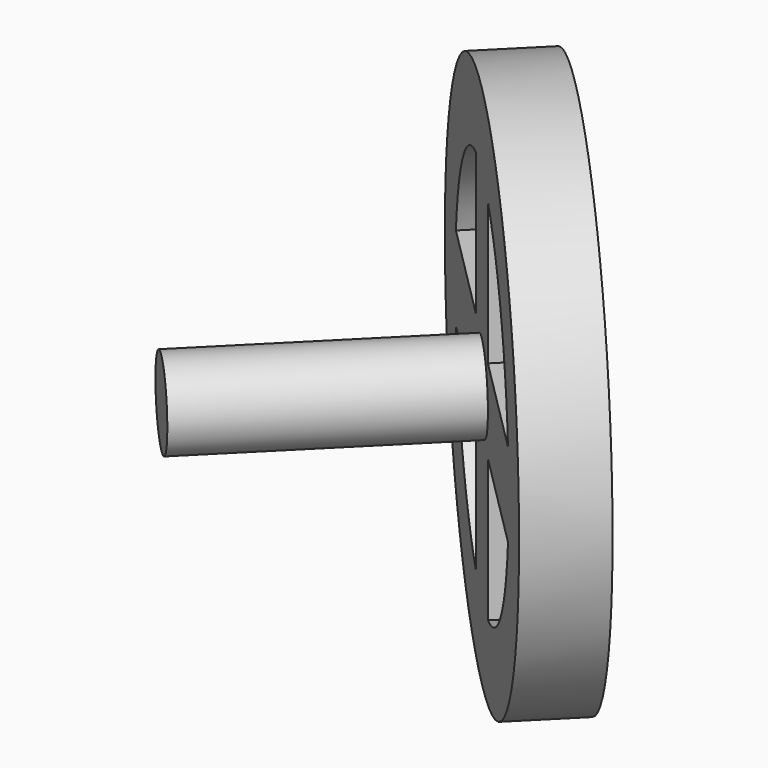
from build123d import *

# Parameters (mm, degrees)
SKETCH048_R             = 12.5
PAD029_DEPTH            = 2
POCKET016_DEPTH         = 2.001
SKETCH049_R             = 12.5
PAD030_DEPTH            = 1.5
POCKET017_DEPTH         = 3.501
SKETCH051_R             = 2
PAD031_DEPTH            = 12
BODY019_ROLL_ANGLE      = -90
BODY019_PLACEMENT_ANGLE = 135


with BuildPart() as part:
    # Sketch048 → Pad029 (new body)
    with BuildSketch(Plane.XY):
        Circle(SKETCH048_R)
    extrude(amount=PAD029_DEPTH)

    # InvoluteGear004 → Pocket016 (cut, through all)
    with BuildSketch(Plane.XY):
        with BuildLine():
            Line((9.429779, -0.670682), (9.462464, -0.672485))
            add(Edge.make_bspline(
                [(9.462464, -0.672485), (9.526401, -0.672813), (9.782228, -0.665747), (10.228882, -0.559536), (10.796766, -0.262578)],
                knots=[0, 0, 0, 0, 0, 1, 1, 1, 1, 1], degree=4))
            ThreePointArc((10.796766, -0.262578), (10.799979, 0.000282), (10.796794, 0.263143))
            add(Edge.make_bspline(
                [(10.796794, 0.263143), (10.228882, 0.559536), (9.782228, 0.665747), (9.526401, 0.672813), (9.462464, 0.672485)],
                knots=[0, 0, 0, 0, 0, 1, 1, 1, 1, 1], degree=4))
            Line((9.462464, 0.672485), (9.429779, 0.670682))
            ThreePointArc((9.429779, 0.670682), (9.231731, 0.732712), (9.134195, 0.9159))
            ThreePointArc((9.134195, 0.9159), (9.122278, 1.027834), (9.108989, 1.139613))
            ThreePointArc((9.108989, 1.139613), (9.163316, 1.339912), (9.342596, 1.444457))
            Line((9.342596, 1.444457), (9.374862, 1.449972))
            add(Edge.make_bspline(
                [(9.374862, 1.449972), (9.437269, 1.46388), (9.68511, 1.527695), (10.096931, 1.730633), (10.584498, 2.146512)],
                knots=[0, 0, 0, 0, 0, 1, 1, 1, 1, 1], degree=4))
            ThreePointArc((10.584498, 2.146512), (10.529138, 2.403497), (10.467541, 2.659058))
            add(Edge.make_bspline(
                [(10.467541, 2.659058), (9.847914, 2.821648), (9.388824, 2.825806), (9.137839, 2.775768), (9.075578, 2.76122)],
                knots=[0, 0, 0, 0, 0, 1, 1, 1, 1, 1], degree=4))
            Line((9.075578, 2.76122), (9.044114, 2.75219))
            ThreePointArc((9.044114, 2.75219), (8.837228, 2.768595), (8.701375, 2.925486))
            ThreePointArc((8.701375, 2.925486), (8.664849, 3.031962), (8.62702, 3.137981))
            ThreePointArc((8.62702, 3.137981), (8.635414, 3.345347), (8.786936, 3.487164))
            Line((8.786936, 3.487164), (8.817165, 3.499721))
            add(Edge.make_bspline(
                [(8.817165, 3.499721), (8.874913, 3.527167), (9.10234, 3.644532), (9.458678, 3.934021), (9.841478, 4.447967)],
                knots=[0, 0, 0, 0, 0, 1, 1, 1, 1, 1], degree=4))
            ThreePointArc((9.841478, 4.447967), (9.730323, 4.68619), (9.613402, 4.921637))
            add(Edge.make_bspline(
                [(9.613402, 4.921637), (8.973131, 4.94227), (8.524626, 4.844167), (8.291068, 4.739534), (8.233605, 4.711497)],
                knots=[0, 0, 0, 0, 0, 1, 1, 1, 1, 1], degree=4))
            Line((8.233605, 4.711497), (8.20494, 4.695691))
            ThreePointArc((8.20494, 4.695691), (7.99959, 4.665649), (7.832232, 4.788376))
            ThreePointArc((7.832232, 4.788376), (7.772928, 4.884054), (7.712456, 4.978998))
            ThreePointArc((7.712456, 4.978998), (7.674496, 5.183033), (7.790662, 5.355011))
            Line((7.790662, 5.355011), (7.817339, 5.37398))
            add(Edge.make_bspline(
                [(7.817339, 5.37398), (7.867532, 5.413588), (8.06314, 5.578617), (8.346127, 5.940141), (8.604966, 6.526382)],
                knots=[0, 0, 0, 0, 0, 1, 1, 1, 1, 1], degree=4))
            ThreePointArc((8.604966, 6.526382), (8.443588, 6.733898), (8.277206, 6.937424))
            add(Edge.make_bspline(
                [(8.277206, 6.937424), (7.648397, 6.815067), (7.232967, 6.619621), (7.028548, 6.46564), (6.978765, 6.425519)],
                knots=[0, 0, 0, 0, 0, 1, 1, 1, 1, 1], degree=4))
            Line((6.978765, 6.425519), (6.954335, 6.403732))
            ThreePointArc((6.954335, 6.403732), (6.760819, 6.328748), (6.570347, 6.411157))
            ThreePointArc((6.570347, 6.411157), (6.49124, 6.49124), (6.411157, 6.570347))
            ThreePointArc((6.411157, 6.570347), (6.328748, 6.760819), (6.403732, 6.954335))
            Line((6.403732, 6.954335), (6.425519, 6.978765))
            add(Edge.make_bspline(
                [(6.425519, 6.978765), (6.46564, 7.028548), (6.619621, 7.232967), (6.815067, 7.648397), (6.936965, 8.277537)],
                knots=[0, 0, 0, 0, 0, 1, 1, 1, 1, 1], degree=4))
            ThreePointArc((6.936965, 8.277537), (6.733456, 8.44394), (6.525958, 8.60534))
            add(Edge.make_bspline(
                [(6.525958, 8.60534), (5.940141, 8.346127), (5.578617, 8.06314), (5.413588, 7.867532), (5.37398, 7.817339)],
                knots=[0, 0, 0, 0, 0, 1, 1, 1, 1, 1], degree=4))
            Line((5.37398, 7.817339), (5.355011, 7.790662))
            ThreePointArc((5.355011, 7.790662), (5.183033, 7.674496), (4.978998, 7.712456))
            ThreePointArc((4.978998, 7.712456), (4.884054, 7.772928), (4.788376, 7.832232))
            ThreePointArc((4.788376, 7.832232), (4.665649, 7.99959), (4.695691, 8.20494))
            Line((4.695691, 8.20494), (4.711497, 8.233605))
            add(Edge.make_bspline(
                [(4.711497, 8.233605), (4.739534, 8.291068), (4.844167, 8.524626), (4.94227, 8.973131), (4.921116, 9.613622)],
                knots=[0, 0, 0, 0, 0, 1, 1, 1, 1, 1], degree=4))
            ThreePointArc((4.921116, 9.613622), (4.685681, 9.730568), (4.44747, 9.841748))
            add(Edge.make_bspline(
                [(4.44747, 9.841748), (3.934021, 9.458678), (3.644532, 9.10234), (3.527167, 8.874913), (3.499721, 8.817165)],
                knots=[0, 0, 0, 0, 0, 1, 1, 1, 1, 1], degree=4))
            Line((3.499721, 8.817165), (3.487164, 8.786936))
            ThreePointArc((3.487164, 8.786936), (3.345347, 8.635414), (3.137981, 8.62702))
            ThreePointArc((3.137981, 8.62702), (3.031962, 8.664849), (2.925486, 8.701375))
            ThreePointArc((2.925486, 8.701375), (2.768595, 8.837228), (2.75219, 9.044114))
            Line((2.75219, 9.044114), (2.76122, 9.075578))
            add(Edge.make_bspline(
                [(2.76122, 9.075578), (2.775768, 9.137839), (2.825806, 9.388824), (2.821648, 9.847914), (2.658501, 10.46764)],
                knots=[0, 0, 0, 0, 0, 1, 1, 1, 1, 1], degree=4))
            ThreePointArc((2.658501, 10.46764), (2.402946, 10.529264), (2.145967, 10.58465))
            add(Edge.make_bspline(
                [(2.145967, 10.58465), (1.730633, 10.096931), (1.527695, 9.68511), (1.46388, 9.437269), (1.449972, 9.374862)],
                knots=[0, 0, 0, 0, 0, 1, 1, 1, 1, 1], degree=4))
            Line((1.449972, 9.374862), (1.444457, 9.342596))
            ThreePointArc((1.444457, 9.342596), (1.339912, 9.163316), (1.139613, 9.108989))
            ThreePointArc((1.139613, 9.108989), (1.027834, 9.122278), (0.9159, 9.134195))
            ThreePointArc((0.9159, 9.134195), (0.732712, 9.231731), (0.670682, 9.429779))
            Line((0.670682, 9.429779), (0.672485, 9.462464))
            add(Edge.make_bspline(
                [(0.672485, 9.462464), (0.672813, 9.526401), (0.665747, 9.782228), (0.559536, 10.228882), (0.262578, 10.796766)],
                knots=[0, 0, 0, 0, 0, 1, 1, 1, 1, 1], degree=4))
            ThreePointArc((0.262578, 10.796766), (-0.000282, 10.799979), (-0.263143, 10.796794))
            add(Edge.make_bspline(
                [(-0.263143, 10.796794), (-0.559536, 10.228882), (-0.665747, 9.782228), (-0.672813, 9.526401), (-0.672485, 9.462464)],
                knots=[0, 0, 0, 0, 0, 1, 1, 1, 1, 1], degree=4))
            Line((-0.672485, 9.462464), (-0.670682, 9.429779))
            ThreePointArc((-0.670682, 9.429779), (-0.732712, 9.231731), (-0.9159, 9.134195))
            ThreePointArc((-0.9159, 9.134195), (-1.027834, 9.122278), (-1.139613, 9.108989))
            ThreePointArc((-1.139613, 9.108989), (-1.339912, 9.163316), (-1.444457, 9.342596))
            Line((-1.444457, 9.342596), (-1.449972, 9.374862))
            add(Edge.make_bspline(
                [(-1.449972, 9.374862), (-1.46388, 9.437269), (-1.527695, 9.68511), (-1.730633, 10.096931), (-2.146512, 10.584498)],
                knots=[0, 0, 0, 0, 0, 1, 1, 1, 1, 1], degree=4))
            ThreePointArc((-2.146512, 10.584498), (-2.403497, 10.529138), (-2.659058, 10.467541))
            add(Edge.make_bspline(
                [(-2.659058, 10.467541), (-2.821648, 9.847914), (-2.825806, 9.388824), (-2.775768, 9.137839), (-2.76122, 9.075578)],
                knots=[0, 0, 0, 0, 0, 1, 1, 1, 1, 1], degree=4))
            Line((-2.76122, 9.075578), (-2.75219, 9.044114))
            ThreePointArc((-2.75219, 9.044114), (-2.768595, 8.837228), (-2.925486, 8.701375))
            ThreePointArc((-2.925486, 8.701375), (-3.031962, 8.664849), (-3.137981, 8.62702))
            ThreePointArc((-3.137981, 8.62702), (-3.345347, 8.635414), (-3.487164, 8.786936))
            Line((-3.487164, 8.786936), (-3.499721, 8.817165))
            add(Edge.make_bspline(
                [(-3.499721, 8.817165), (-3.527167, 8.874913), (-3.644532, 9.10234), (-3.934021, 9.458678), (-4.447967, 9.841478)],
                knots=[0, 0, 0, 0, 0, 1, 1, 1, 1, 1], degree=4))
            ThreePointArc((-4.447967, 9.841478), (-4.68619, 9.730323), (-4.921637, 9.613402))
            add(Edge.make_bspline(
                [(-4.921637, 9.613402), (-4.94227, 8.973131), (-4.844167, 8.524626), (-4.739534, 8.291068), (-4.711497, 8.233605)],
                knots=[0, 0, 0, 0, 0, 1, 1, 1, 1, 1], degree=4))
            Line((-4.711497, 8.233605), (-4.695691, 8.20494))
            ThreePointArc((-4.695691, 8.20494), (-4.665649, 7.99959), (-4.788376, 7.832232))
            ThreePointArc((-4.788376, 7.832232), (-4.884054, 7.772928), (-4.978998, 7.712456))
            ThreePointArc((-4.978998, 7.712456), (-5.183033, 7.674496), (-5.355011, 7.790662))
            Line((-5.355011, 7.790662), (-5.37398, 7.817339))
            add(Edge.make_bspline(
                [(-5.37398, 7.817339), (-5.413588, 7.867532), (-5.578617, 8.06314), (-5.940141, 8.346127), (-6.526382, 8.604966)],
                knots=[0, 0, 0, 0, 0, 1, 1, 1, 1, 1], degree=4))
            ThreePointArc((-6.526382, 8.604966), (-6.733898, 8.443588), (-6.937424, 8.277206))
            add(Edge.make_bspline(
                [(-6.937424, 8.277206), (-6.815067, 7.648397), (-6.619621, 7.232967), (-6.46564, 7.028548), (-6.425519, 6.978765)],
                knots=[0, 0, 0, 0, 0, 1, 1, 1, 1, 1], degree=4))
            Line((-6.425519, 6.978765), (-6.403732, 6.954335))
            ThreePointArc((-6.403732, 6.954335), (-6.328748, 6.760819), (-6.411157, 6.570347))
            ThreePointArc((-6.411157, 6.570347), (-6.49124, 6.49124), (-6.570347, 6.411157))
            ThreePointArc((-6.570347, 6.411157), (-6.760819, 6.328748), (-6.954335, 6.403732))
            Line((-6.954335, 6.403732), (-6.978765, 6.425519))
            add(Edge.make_bspline(
                [(-6.978765, 6.425519), (-7.028548, 6.46564), (-7.232967, 6.619621), (-7.648397, 6.815067), (-8.277537, 6.936965)],
                knots=[0, 0, 0, 0, 0, 1, 1, 1, 1, 1], degree=4))
            ThreePointArc((-8.277537, 6.936965), (-8.44394, 6.733456), (-8.60534, 6.525958))
            add(Edge.make_bspline(
                [(-8.60534, 6.525958), (-8.346127, 5.940141), (-8.06314, 5.578617), (-7.867532, 5.413588), (-7.817339, 5.37398)],
                knots=[0, 0, 0, 0, 0, 1, 1, 1, 1, 1], degree=4))
            Line((-7.817339, 5.37398), (-7.790662, 5.355011))
            ThreePointArc((-7.790662, 5.355011), (-7.674496, 5.183033), (-7.712456, 4.978998))
            ThreePointArc((-7.712456, 4.978998), (-7.772928, 4.884054), (-7.832232, 4.788376))
            ThreePointArc((-7.832232, 4.788376), (-7.99959, 4.665649), (-8.20494, 4.695691))
            Line((-8.20494, 4.695691), (-8.233605, 4.711497))
            add(Edge.make_bspline(
                [(-8.233605, 4.711497), (-8.291068, 4.739534), (-8.524626, 4.844167), (-8.973131, 4.94227), (-9.613622, 4.921116)],
                knots=[0, 0, 0, 0, 0, 1, 1, 1, 1, 1], degree=4))
            ThreePointArc((-9.613622, 4.921116), (-9.730568, 4.685681), (-9.841748, 4.44747))
            add(Edge.make_bspline(
                [(-9.841748, 4.44747), (-9.458678, 3.934021), (-9.10234, 3.644532), (-8.874913, 3.527167), (-8.817165, 3.499721)],
                knots=[0, 0, 0, 0, 0, 1, 1, 1, 1, 1], degree=4))
            Line((-8.817165, 3.499721), (-8.786936, 3.487164))
            ThreePointArc((-8.786936, 3.487164), (-8.635414, 3.345347), (-8.62702, 3.137981))
            ThreePointArc((-8.62702, 3.137981), (-8.664849, 3.031962), (-8.701375, 2.925486))
            ThreePointArc((-8.701375, 2.925486), (-8.837228, 2.768595), (-9.044114, 2.75219))
            Line((-9.044114, 2.75219), (-9.075578, 2.76122))
            add(Edge.make_bspline(
                [(-9.075578, 2.76122), (-9.137839, 2.775768), (-9.388824, 2.825806), (-9.847914, 2.821648), (-10.46764, 2.658501)],
                knots=[0, 0, 0, 0, 0, 1, 1, 1, 1, 1], degree=4))
            ThreePointArc((-10.46764, 2.658501), (-10.529264, 2.402946), (-10.58465, 2.145967))
            add(Edge.make_bspline(
                [(-10.58465, 2.145967), (-10.096931, 1.730633), (-9.68511, 1.527695), (-9.437269, 1.46388), (-9.374862, 1.449972)],
                knots=[0, 0, 0, 0, 0, 1, 1, 1, 1, 1], degree=4))
            Line((-9.374862, 1.449972), (-9.342596, 1.444457))
            ThreePointArc((-9.342596, 1.444457), (-9.163316, 1.339912), (-9.108989, 1.139613))
            ThreePointArc((-9.108989, 1.139613), (-9.122278, 1.027834), (-9.134195, 0.9159))
            ThreePointArc((-9.134195, 0.9159), (-9.231731, 0.732712), (-9.429779, 0.670682))
            Line((-9.429779, 0.670682), (-9.462464, 0.672485))
            add(Edge.make_bspline(
                [(-9.462464, 0.672485), (-9.526401, 0.672813), (-9.782228, 0.665747), (-10.228882, 0.559536), (-10.796766, 0.262578)],
                knots=[0, 0, 0, 0, 0, 1, 1, 1, 1, 1], degree=4))
            ThreePointArc((-10.796766, 0.262578), (-10.799979, -0.000282), (-10.796794, -0.263143))
            add(Edge.make_bspline(
                [(-10.796794, -0.263143), (-10.228882, -0.559536), (-9.782228, -0.665747), (-9.526401, -0.672813), (-9.462464, -0.672485)],
                knots=[0, 0, 0, 0, 0, 1, 1, 1, 1, 1], degree=4))
            Line((-9.462464, -0.672485), (-9.429779, -0.670682))
            ThreePointArc((-9.429779, -0.670682), (-9.231731, -0.732712), (-9.134195, -0.9159))
            ThreePointArc((-9.134195, -0.9159), (-9.122278, -1.027834), (-9.108989, -1.139613))
            ThreePointArc((-9.108989, -1.139613), (-9.163316, -1.339912), (-9.342596, -1.444457))
            Line((-9.342596, -1.444457), (-9.374862, -1.449972))
            add(Edge.make_bspline(
                [(-9.374862, -1.449972), (-9.437269, -1.46388), (-9.68511, -1.527695), (-10.096931, -1.730633), (-10.584498, -2.146512)],
                knots=[0, 0, 0, 0, 0, 1, 1, 1, 1, 1], degree=4))
            ThreePointArc((-10.584498, -2.146512), (-10.529138, -2.403497), (-10.467541, -2.659058))
            add(Edge.make_bspline(
                [(-10.467541, -2.659058), (-9.847914, -2.821648), (-9.388824, -2.825806), (-9.137839, -2.775768), (-9.075578, -2.76122)],
                knots=[0, 0, 0, 0, 0, 1, 1, 1, 1, 1], degree=4))
            Line((-9.075578, -2.76122), (-9.044114, -2.75219))
            ThreePointArc((-9.044114, -2.75219), (-8.837228, -2.768595), (-8.701375, -2.925486))
            ThreePointArc((-8.701375, -2.925486), (-8.664849, -3.031962), (-8.62702, -3.137981))
            ThreePointArc((-8.62702, -3.137981), (-8.635414, -3.345347), (-8.786936, -3.487164))
            Line((-8.786936, -3.487164), (-8.817165, -3.499721))
            add(Edge.make_bspline(
                [(-8.817165, -3.499721), (-8.874913, -3.527167), (-9.10234, -3.644532), (-9.458678, -3.934021), (-9.841478, -4.447967)],
                knots=[0, 0, 0, 0, 0, 1, 1, 1, 1, 1], degree=4))
            ThreePointArc((-9.841478, -4.447967), (-9.730323, -4.68619), (-9.613402, -4.921637))
            add(Edge.make_bspline(
                [(-9.613402, -4.921637), (-8.973131, -4.94227), (-8.524626, -4.844167), (-8.291068, -4.739534), (-8.233605, -4.711497)],
                knots=[0, 0, 0, 0, 0, 1, 1, 1, 1, 1], degree=4))
            Line((-8.233605, -4.711497), (-8.20494, -4.695691))
            ThreePointArc((-8.20494, -4.695691), (-7.99959, -4.665649), (-7.832232, -4.788376))
            ThreePointArc((-7.832232, -4.788376), (-7.772928, -4.884054), (-7.712456, -4.978998))
            ThreePointArc((-7.712456, -4.978998), (-7.674496, -5.183033), (-7.790662, -5.355011))
            Line((-7.790662, -5.355011), (-7.817339, -5.37398))
            add(Edge.make_bspline(
                [(-7.817339, -5.37398), (-7.867532, -5.413588), (-8.06314, -5.578617), (-8.346127, -5.940141), (-8.604966, -6.526382)],
                knots=[0, 0, 0, 0, 0, 1, 1, 1, 1, 1], degree=4))
            ThreePointArc((-8.604966, -6.526382), (-8.443588, -6.733898), (-8.277206, -6.937424))
            add(Edge.make_bspline(
                [(-8.277206, -6.937424), (-7.648397, -6.815067), (-7.232967, -6.619621), (-7.028548, -6.46564), (-6.978765, -6.425519)],
                knots=[0, 0, 0, 0, 0, 1, 1, 1, 1, 1], degree=4))
            Line((-6.978765, -6.425519), (-6.954335, -6.403732))
            ThreePointArc((-6.954335, -6.403732), (-6.760819, -6.328748), (-6.570347, -6.411157))
            ThreePointArc((-6.570347, -6.411157), (-6.49124, -6.49124), (-6.411157, -6.570347))
            ThreePointArc((-6.411157, -6.570347), (-6.328748, -6.760819), (-6.403732, -6.954335))
            Line((-6.403732, -6.954335), (-6.425519, -6.978765))
            add(Edge.make_bspline(
                [(-6.425519, -6.978765), (-6.46564, -7.028548), (-6.619621, -7.232967), (-6.815067, -7.648397), (-6.936965, -8.277537)],
                knots=[0, 0, 0, 0, 0, 1, 1, 1, 1, 1], degree=4))
            ThreePointArc((-6.936965, -8.277537), (-6.733456, -8.44394), (-6.525958, -8.60534))
            add(Edge.make_bspline(
                [(-6.525958, -8.60534), (-5.940141, -8.346127), (-5.578617, -8.06314), (-5.413588, -7.867532), (-5.37398, -7.817339)],
                knots=[0, 0, 0, 0, 0, 1, 1, 1, 1, 1], degree=4))
            Line((-5.37398, -7.817339), (-5.355011, -7.790662))
            ThreePointArc((-5.355011, -7.790662), (-5.183033, -7.674496), (-4.978998, -7.712456))
            ThreePointArc((-4.978998, -7.712456), (-4.884054, -7.772928), (-4.788376, -7.832232))
            ThreePointArc((-4.788376, -7.832232), (-4.665649, -7.99959), (-4.695691, -8.20494))
            Line((-4.695691, -8.20494), (-4.711497, -8.233605))
            add(Edge.make_bspline(
                [(-4.711497, -8.233605), (-4.739534, -8.291068), (-4.844167, -8.524626), (-4.94227, -8.973131), (-4.921116, -9.613622)],
                knots=[0, 0, 0, 0, 0, 1, 1, 1, 1, 1], degree=4))
            ThreePointArc((-4.921116, -9.613622), (-4.685681, -9.730568), (-4.44747, -9.841748))
            add(Edge.make_bspline(
                [(-4.44747, -9.841748), (-3.934021, -9.458678), (-3.644532, -9.10234), (-3.527167, -8.874913), (-3.499721, -8.817165)],
                knots=[0, 0, 0, 0, 0, 1, 1, 1, 1, 1], degree=4))
            Line((-3.499721, -8.817165), (-3.487164, -8.786936))
            ThreePointArc((-3.487164, -8.786936), (-3.345347, -8.635414), (-3.137981, -8.62702))
            ThreePointArc((-3.137981, -8.62702), (-3.031962, -8.664849), (-2.925486, -8.701375))
            ThreePointArc((-2.925486, -8.701375), (-2.768595, -8.837228), (-2.75219, -9.044114))
            Line((-2.75219, -9.044114), (-2.76122, -9.075578))
            add(Edge.make_bspline(
                [(-2.76122, -9.075578), (-2.775768, -9.137839), (-2.825806, -9.388824), (-2.821648, -9.847914), (-2.658501, -10.46764)],
                knots=[0, 0, 0, 0, 0, 1, 1, 1, 1, 1], degree=4))
            ThreePointArc((-2.658501, -10.46764), (-2.402946, -10.529264), (-2.145967, -10.58465))
            add(Edge.make_bspline(
                [(-2.145967, -10.58465), (-1.730633, -10.096931), (-1.527695, -9.68511), (-1.46388, -9.437269), (-1.449972, -9.374862)],
                knots=[0, 0, 0, 0, 0, 1, 1, 1, 1, 1], degree=4))
            Line((-1.449972, -9.374862), (-1.444457, -9.342596))
            ThreePointArc((-1.444457, -9.342596), (-1.339912, -9.163316), (-1.139613, -9.108989))
            ThreePointArc((-1.139613, -9.108989), (-1.027834, -9.122278), (-0.9159, -9.134195))
            ThreePointArc((-0.9159, -9.134195), (-0.732712, -9.231731), (-0.670682, -9.429779))
            Line((-0.670682, -9.429779), (-0.672485, -9.462464))
            add(Edge.make_bspline(
                [(-0.672485, -9.462464), (-0.672813, -9.526401), (-0.665747, -9.782228), (-0.559536, -10.228882), (-0.262578, -10.796766)],
                knots=[0, 0, 0, 0, 0, 1, 1, 1, 1, 1], degree=4))
            ThreePointArc((-0.262578, -10.796766), (0.000282, -10.799979), (0.263143, -10.796794))
            add(Edge.make_bspline(
                [(0.263143, -10.796794), (0.559536, -10.228882), (0.665747, -9.782228), (0.672813, -9.526401), (0.672485, -9.462464)],
                knots=[0, 0, 0, 0, 0, 1, 1, 1, 1, 1], degree=4))
            Line((0.672485, -9.462464), (0.670682, -9.429779))
            ThreePointArc((0.670682, -9.429779), (0.732712, -9.231731), (0.9159, -9.134195))
            ThreePointArc((0.9159, -9.134195), (1.027834, -9.122278), (1.139613, -9.108989))
            ThreePointArc((1.139613, -9.108989), (1.339912, -9.163316), (1.444457, -9.342596))
            Line((1.444457, -9.342596), (1.449972, -9.374862))
            add(Edge.make_bspline(
                [(1.449972, -9.374862), (1.46388, -9.437269), (1.527695, -9.68511), (1.730633, -10.096931), (2.146512, -10.584498)],
                knots=[0, 0, 0, 0, 0, 1, 1, 1, 1, 1], degree=4))
            ThreePointArc((2.146512, -10.584498), (2.403497, -10.529138), (2.659058, -10.467541))
            add(Edge.make_bspline(
                [(2.659058, -10.467541), (2.821648, -9.847914), (2.825806, -9.388824), (2.775768, -9.137839), (2.76122, -9.075578)],
                knots=[0, 0, 0, 0, 0, 1, 1, 1, 1, 1], degree=4))
            Line((2.76122, -9.075578), (2.75219, -9.044114))
            ThreePointArc((2.75219, -9.044114), (2.768595, -8.837228), (2.925486, -8.701375))
            ThreePointArc((2.925486, -8.701375), (3.031962, -8.664849), (3.137981, -8.62702))
            ThreePointArc((3.137981, -8.62702), (3.345347, -8.635414), (3.487164, -8.786936))
            Line((3.487164, -8.786936), (3.499721, -8.817165))
            add(Edge.make_bspline(
                [(3.499721, -8.817165), (3.527167, -8.874913), (3.644532, -9.10234), (3.934021, -9.458678), (4.447967, -9.841478)],
                knots=[0, 0, 0, 0, 0, 1, 1, 1, 1, 1], degree=4))
            ThreePointArc((4.447967, -9.841478), (4.68619, -9.730323), (4.921637, -9.613402))
            add(Edge.make_bspline(
                [(4.921637, -9.613402), (4.94227, -8.973131), (4.844167, -8.524626), (4.739534, -8.291068), (4.711497, -8.233605)],
                knots=[0, 0, 0, 0, 0, 1, 1, 1, 1, 1], degree=4))
            Line((4.711497, -8.233605), (4.695691, -8.20494))
            ThreePointArc((4.695691, -8.20494), (4.665649, -7.99959), (4.788376, -7.832232))
            ThreePointArc((4.788376, -7.832232), (4.884054, -7.772928), (4.978998, -7.712456))
            ThreePointArc((4.978998, -7.712456), (5.183033, -7.674496), (5.355011, -7.790662))
            Line((5.355011, -7.790662), (5.37398, -7.817339))
            add(Edge.make_bspline(
                [(5.37398, -7.817339), (5.413588, -7.867532), (5.578617, -8.06314), (5.940141, -8.346127), (6.526382, -8.604966)],
                knots=[0, 0, 0, 0, 0, 1, 1, 1, 1, 1], degree=4))
            ThreePointArc((6.526382, -8.604966), (6.733898, -8.443588), (6.937424, -8.277206))
            add(Edge.make_bspline(
                [(6.937424, -8.277206), (6.815067, -7.648397), (6.619621, -7.232967), (6.46564, -7.028548), (6.425519, -6.978765)],
                knots=[0, 0, 0, 0, 0, 1, 1, 1, 1, 1], degree=4))
            Line((6.425519, -6.978765), (6.403732, -6.954335))
            ThreePointArc((6.403732, -6.954335), (6.328748, -6.760819), (6.411157, -6.570347))
            ThreePointArc((6.411157, -6.570347), (6.49124, -6.49124), (6.570347, -6.411157))
            ThreePointArc((6.570347, -6.411157), (6.760819, -6.328748), (6.954335, -6.403732))
            Line((6.954335, -6.403732), (6.978765, -6.425519))
            add(Edge.make_bspline(
                [(6.978765, -6.425519), (7.028548, -6.46564), (7.232967, -6.619621), (7.648397, -6.815067), (8.277537, -6.936965)],
                knots=[0, 0, 0, 0, 0, 1, 1, 1, 1, 1], degree=4))
            ThreePointArc((8.277537, -6.936965), (8.44394, -6.733456), (8.60534, -6.525958))
            add(Edge.make_bspline(
                [(8.60534, -6.525958), (8.346127, -5.940141), (8.06314, -5.578617), (7.867532, -5.413588), (7.817339, -5.37398)],
                knots=[0, 0, 0, 0, 0, 1, 1, 1, 1, 1], degree=4))
            Line((7.817339, -5.37398), (7.790662, -5.355011))
            ThreePointArc((7.790662, -5.355011), (7.674496, -5.183033), (7.712456, -4.978998))
            ThreePointArc((7.712456, -4.978998), (7.772928, -4.884054), (7.832232, -4.788376))
            ThreePointArc((7.832232, -4.788376), (7.99959, -4.665649), (8.20494, -4.695691))
            Line((8.20494, -4.695691), (8.233605, -4.711497))
            add(Edge.make_bspline(
                [(8.233605, -4.711497), (8.291068, -4.739534), (8.524626, -4.844167), (8.973131, -4.94227), (9.613622, -4.921116)],
                knots=[0, 0, 0, 0, 0, 1, 1, 1, 1, 1], degree=4))
            ThreePointArc((9.613622, -4.921116), (9.730568, -4.685681), (9.841748, -4.44747))
            add(Edge.make_bspline(
                [(9.841748, -4.44747), (9.458678, -3.934021), (9.10234, -3.644532), (8.874913, -3.527167), (8.817165, -3.499721)],
                knots=[0, 0, 0, 0, 0, 1, 1, 1, 1, 1], degree=4))
            Line((8.817165, -3.499721), (8.786936, -3.487164))
            ThreePointArc((8.786936, -3.487164), (8.635414, -3.345347), (8.62702, -3.137981))
            ThreePointArc((8.62702, -3.137981), (8.664849, -3.031962), (8.701375, -2.925486))
            ThreePointArc((8.701375, -2.925486), (8.837228, -2.768595), (9.044114, -2.75219))
            Line((9.044114, -2.75219), (9.075578, -2.76122))
            add(Edge.make_bspline(
                [(9.075578, -2.76122), (9.137839, -2.775768), (9.388824, -2.825806), (9.847914, -2.821648), (10.46764, -2.658501)],
                knots=[0, 0, 0, 0, 0, 1, 1, 1, 1, 1], degree=4))
            ThreePointArc((10.46764, -2.658501), (10.529264, -2.402946), (10.58465, -2.145967))
            add(Edge.make_bspline(
                [(10.58465, -2.145967), (10.096931, -1.730633), (9.68511, -1.527695), (9.437269, -1.46388), (9.374862, -1.449972)],
                knots=[0, 0, 0, 0, 0, 1, 1, 1, 1, 1], degree=4))
            Line((9.374862, -1.449972), (9.342596, -1.444457))
            ThreePointArc((9.342596, -1.444457), (9.163316, -1.339912), (9.108989, -1.139613))
            ThreePointArc((9.108989, -1.139613), (9.122278, -1.027834), (9.134195, -0.9159))
            ThreePointArc((9.134195, -0.9159), (9.231731, -0.732712), (9.429779, -0.670682))
        make_face()
    extrude(amount=POCKET016_DEPTH, mode=Mode.SUBTRACT)

    # Sketch049 (on Face3 of Pocket016) → Pad030 (join)
    with BuildSketch(Plane.XY.offset(2)):
        Circle(SKETCH049_R)
    extrude(amount=PAD030_DEPTH)

    # Sketch050 (on Face228 of Pad030) → Pocket017 (cut, through all)
    with BuildSketch(Plane.XY.offset(3.5)):
        with BuildLine():
            Line((-8.774964, -2), (-2, -2))
            Line((-2, -2), (-2, -8.774964))
            ThreePointArc((-8.774964, -2), (-6.363961, -6.363961), (-2, -8.774964))
        make_face()
        with BuildLine():
            Line((-8.774964, 2), (-2, 2))
            Line((-2, 2), (-2, 8.774964))
            ThreePointArc((-2, 8.774964), (-6.363961, 6.363961), (-8.774964, 2))
        make_face()
        with BuildLine():
            Line((2, -8.774964), (2, -2))
            Line((2, -2), (8.774964, -2))
            ThreePointArc((2, -8.774964), (6.363961, -6.363961), (8.774964, -2))
        make_face()
        with BuildLine():
            Line((2, 2), (8.774964, 2))
            ThreePointArc((8.774964, 2), (6.363961, 6.363961), (2, 8.774964))
            Line((2, 2), (2, 8.774964))
        make_face()
    extrude(amount=-POCKET017_DEPTH, mode=Mode.SUBTRACT)

    # Sketch051 (on Face228 of Pocket017) → Pad031 (join)
    with BuildSketch(Plane.XY.offset(3.5)):
        Circle(SKETCH051_R)
    extrude(amount=PAD031_DEPTH)


with BuildPart() as part_1:
    # Body019 roll: moved
    add(part.part.rotate(Axis((0, 0, 0), (1, 0, 0)), BODY019_ROLL_ANGLE))


with BuildPart() as part_2:
    # Body019 placement: moved
    add(part_1.part.moved(Location((-46.5, -46.5, -6))).rotate(Axis((-46.5, -46.5, -6), (0, 0, 1)), BODY019_PLACEMENT_ANGLE))


solid = part_2.part
